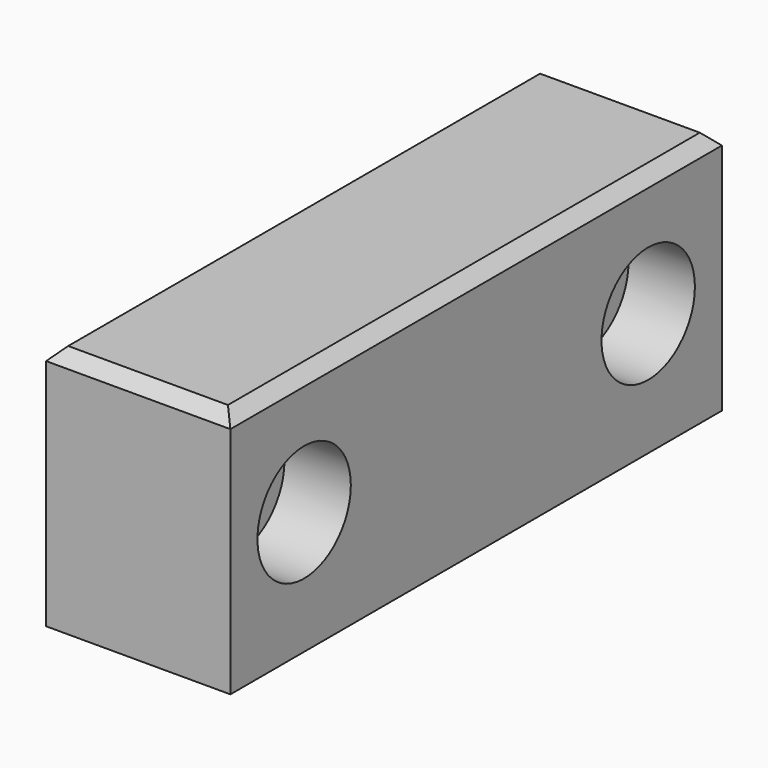
from build123d import *

# Parameters (mm, degrees)
F0_W           = 15
F0_H           = 50
F1_DEPTH       = 20
F3_D           = 5.5
F3_CBORE_D     = 9.5
F3_CBORE_DEPTH = 5.4
F4_SIZE        = 1


with BuildPart() as f1:
    # F0 (on Top) → F1 (new body)
    with BuildSketch(Plane.XY):
        with Locations((7.5, 25)):
            Rectangle(F0_W, F0_H)
    extrude(amount=F1_DEPTH)

    # F3 (through all)
    with Locations(Plane.YZ.offset(15)):
        with Locations((7.5, 10), (42.5, 10)):
            CounterBoreHole(F3_D / 2, F3_CBORE_D / 2, F3_CBORE_DEPTH)

    # F4
    f4_edges = [f1.edges().sort_by_distance(p)[0] for p in [
        (15, 25, 20),
        (7.5, 0, 20),
        (0, 25, 20),
        (7.5, 50, 20),
    ]]
    chamfer(f4_edges, length=F4_SIZE)


solid = f1.part
